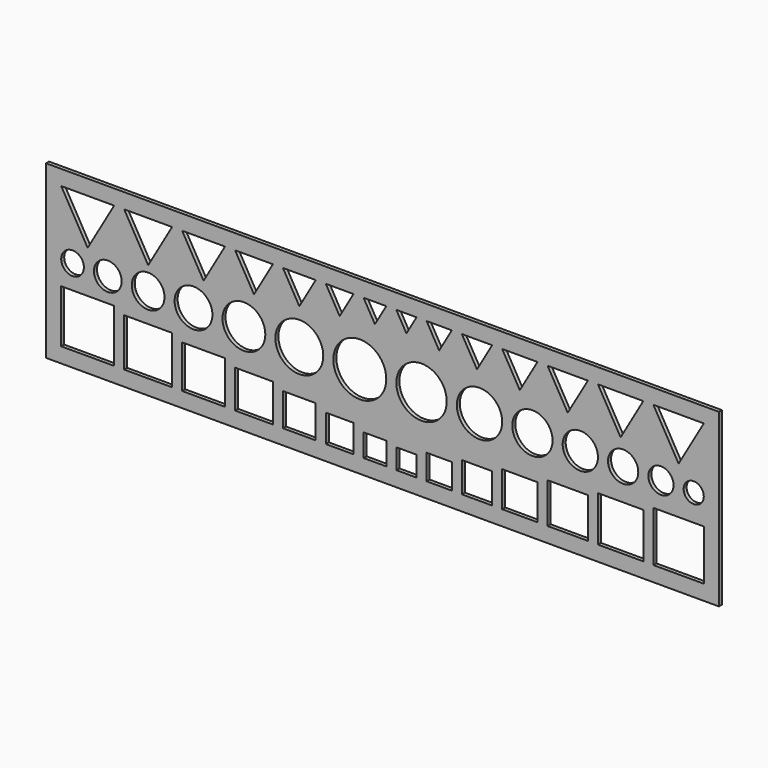
from build123d import *

# Parameters (mm, degrees)
F0_W     = 267
F0_H     = 67.998115
F0_W_2   = 21
F0_H_2   = 21
F0_W_3   = 19
F0_H_3   = 19
F0_W_4   = 17
F0_H_4   = 17
F0_W_5   = 15
F0_H_5   = 15
F0_W_6   = 13
F0_H_6   = 13
F0_W_7   = 11
F0_H_7   = 11
F0_W_8   = 9
F0_H_8   = 9
F0_W_9   = 8
F0_H_9   = 8
F0_W_10  = 10
F0_H_10  = 10
F0_W_11  = 12
F0_H_11  = 12
F0_W_12  = 14
F0_H_12  = 14
F0_W_13  = 16
F0_H_13  = 16
F0_W_14  = 18
F0_H_14  = 18
F0_W_15  = 20
F0_H_15  = 20
F0_R     = 4.5
F0_R_2   = 5.5
F0_R_3   = 6.5
F0_R_4   = 7.5
F0_R_5   = 8.5
F0_R_6   = 9.5
F0_R_7   = 10.5
F0_R_8   = 10
F0_R_9   = 9
F0_R_10  = 8
F0_R_11  = 7
F0_R_12  = 6
F0_R_13  = 5
F0_R_14  = 4
F1_DEPTH = 1.5


with BuildPart() as f1:
    # F0 (on Front) → F1 (new body)
    with BuildSketch(Plane.XZ):
        with Locations((-5.5, 27.999057)):
            Rectangle(F0_W, F0_H)
        with Locations((-122.5, 10.5)):
            Rectangle(F0_W_2, F0_H_2, mode=Mode.SUBTRACT)
        with Locations((-98.5, 9.5)):
            Rectangle(F0_W_3, F0_H_3, mode=Mode.SUBTRACT)
        with Locations((-76.5, 8.5)):
            Rectangle(F0_W_4, F0_H_4, mode=Mode.SUBTRACT)
        with Locations((-56.5, 7.5)):
            Rectangle(F0_W_5, F0_H_5, mode=Mode.SUBTRACT)
        with Locations((-38.5, 6.5)):
            Rectangle(F0_W_6, F0_H_6, mode=Mode.SUBTRACT)
        with Locations((-22.5, 5.5)):
            Rectangle(F0_W_7, F0_H_7, mode=Mode.SUBTRACT)
        with Locations((-8.5, 4.5)):
            Rectangle(F0_W_8, F0_H_8, mode=Mode.SUBTRACT)
        with Locations((4, 4)):
            Rectangle(F0_W_9, F0_H_9, mode=Mode.SUBTRACT)
        with Locations((17, 5)):
            Rectangle(F0_W_10, F0_H_10, mode=Mode.SUBTRACT)
        with Locations((32, 6)):
            Rectangle(F0_W_11, F0_H_11, mode=Mode.SUBTRACT)
        with Locations((49, 7)):
            Rectangle(F0_W_12, F0_H_12, mode=Mode.SUBTRACT)
        with Locations((68, 8)):
            Rectangle(F0_W_13, F0_H_13, mode=Mode.SUBTRACT)
        with Locations((89, 9)):
            Rectangle(F0_W_14, F0_H_14, mode=Mode.SUBTRACT)
        with Locations((112, 10)):
            Rectangle(F0_W_15, F0_H_15, mode=Mode.SUBTRACT)
        with Locations((-128.5, 30.5)):
            Circle(F0_R, mode=Mode.SUBTRACT)
        with Locations((-114.5, 30.5)):
            Circle(F0_R_2, mode=Mode.SUBTRACT)
        with Locations((-98.5, 30.5)):
            Circle(F0_R_3, mode=Mode.SUBTRACT)
        with Locations((-80.5, 30.5)):
            Circle(F0_R_4, mode=Mode.SUBTRACT)
        with Locations((-60.5, 30.5)):
            Circle(F0_R_5, mode=Mode.SUBTRACT)
        with Locations((-38.5, 30.5)):
            Circle(F0_R_6, mode=Mode.SUBTRACT)
        with Locations((-14.5, 30.5)):
            Circle(F0_R_7, mode=Mode.SUBTRACT)
        Polygon((-122.5, 37.811581), (-133, 55.998115), (-112, 55.998115), align=None, mode=Mode.SUBTRACT)
        Polygon((-98.5, 39.543632), (-108, 55.998115), (-89, 55.998115), align=None, mode=Mode.SUBTRACT)
        Polygon((-76.5, 41.275683), (-85, 55.998115), (-68, 55.998115), align=None, mode=Mode.SUBTRACT)
        Polygon((-56.5, 43.007733), (-64, 55.998115), (-49, 55.998115), align=None, mode=Mode.SUBTRACT)
        Polygon((-38.5, 44.739784), (-45, 55.998115), (-32, 55.998115), align=None, mode=Mode.SUBTRACT)
        Polygon((-22.5, 46.471835), (-28, 55.998115), (-17, 55.998115), align=None, mode=Mode.SUBTRACT)
        Polygon((-8.5, 48.203886), (-13, 55.998115), (-4, 55.998115), align=None, mode=Mode.SUBTRACT)
        with Locations((10, 30.5)):
            Circle(F0_R_8, mode=Mode.SUBTRACT)
        with Locations((33, 30.5)):
            Circle(F0_R_9, mode=Mode.SUBTRACT)
        with Locations((54, 30.5)):
            Circle(F0_R_10, mode=Mode.SUBTRACT)
        with Locations((73, 30.5)):
            Circle(F0_R_11, mode=Mode.SUBTRACT)
        with Locations((90, 30.5)):
            Circle(F0_R_12, mode=Mode.SUBTRACT)
        with Locations((105, 30.5)):
            Circle(F0_R_13, mode=Mode.SUBTRACT)
        with Locations((118, 30.5)):
            Circle(F0_R_14, mode=Mode.SUBTRACT)
        Polygon((4, 49.069911), (0, 55.998115), (8, 55.998115), align=None, mode=Mode.SUBTRACT)
        Polygon((17, 47.33786), (12, 55.998115), (22, 55.998115), align=None, mode=Mode.SUBTRACT)
        Polygon((32, 45.60581), (26, 55.998115), (38, 55.998115), align=None, mode=Mode.SUBTRACT)
        Polygon((49, 43.873759), (42, 55.998115), (56, 55.998115), align=None, mode=Mode.SUBTRACT)
        Polygon((68, 42.141708), (60, 55.998115), (76, 55.998115), align=None, mode=Mode.SUBTRACT)
        Polygon((89, 40.409657), (80, 55.998115), (98, 55.998115), align=None, mode=Mode.SUBTRACT)
        Polygon((112, 38.677606), (102, 55.998115), (122, 55.998115), align=None, mode=Mode.SUBTRACT)
    extrude(amount=F1_DEPTH)


solid = f1.part
